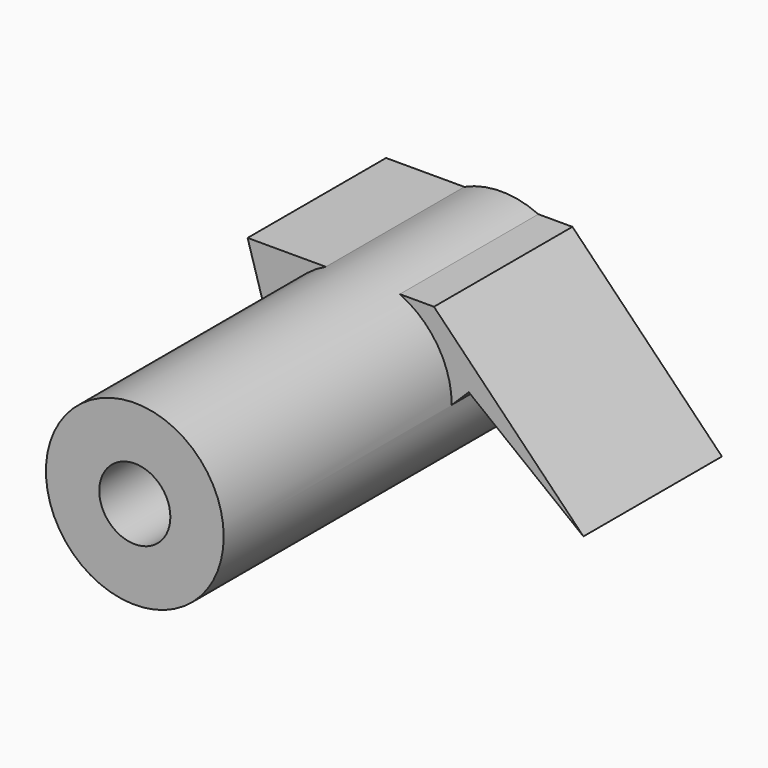
from build123d import *

# Parameters (mm, degrees)
F0_R        = 84.9248544657
F0_R_2      = 33.9615466557
F1_DEPTH    = 272.288
F1_FACE_R   = 84.9248544657
F1_FACE_R_2 = 33.9615466557
F3_DEPTH    = 165.354


with BuildPart() as f1:
    # F0 (on Front) → F1 (new body)
    with BuildSketch(Plane.XZ):
        Circle(F0_R)
        Circle(F0_R_2, mode=Mode.SUBTRACT)
    extrude(amount=F1_DEPTH)

    # F2 (on Front) + F1_face (on face) → F3 (join)
    with BuildSketch(Plane.XZ):
        Polygon((-48.1283850968, -131.0852468014), (101.2032479048, 16.2205696106), (210.7565999031, -69.5293322206), (67.9459944367, 77.2122740746), (-110.0782006979, 77.2122740746), align=None)
        Polygon((30.7434209562, 55.7709210088), (31.428206712, 16.2205696106), (-26.60898678, 10.0779673085), (-30.7561735016, 49.2618614253), align=None, mode=Mode.SUBTRACT)
    with BuildSketch(Plane(origin=(0, 0, 0), x_dir=(1, 0, 0), z_dir=(0, 1, 0))):
        Circle(F1_FACE_R)
        Circle(F1_FACE_R_2, mode=Mode.SUBTRACT)
    extrude(amount=-F3_DEPTH, dir=(0, -1, 0))


solid = f1.part
